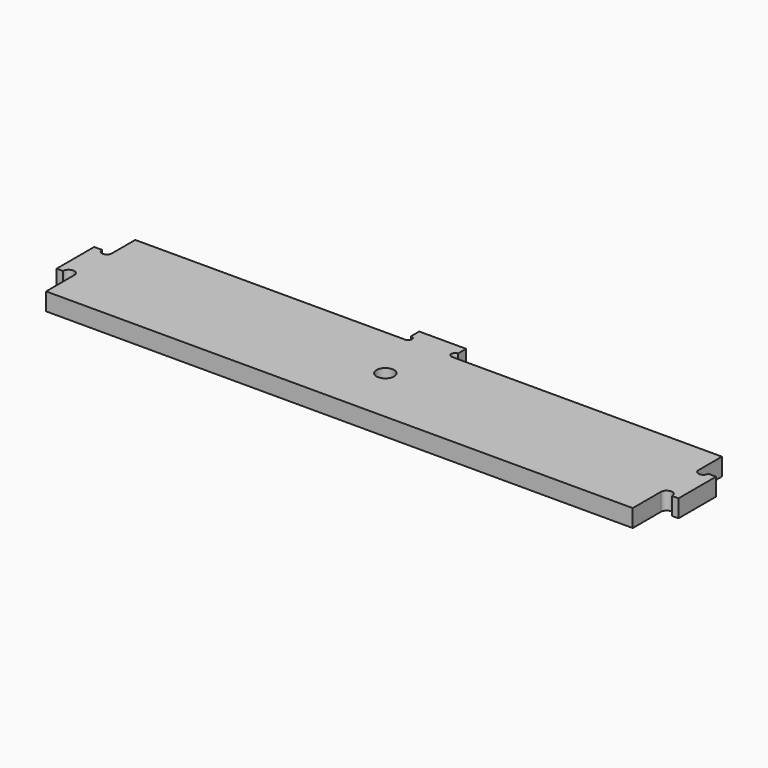
from build123d import *

# Parameters (mm, degrees)
SKETCH009_W        = 106
SKETCH009_H        = 22
PAD003_DEPTH       = 3
POCKET003002_DEPTH = 219.602016
SKETCH001007_R     = 1.5
POCKET003007_DEPTH = 3.001


with BuildPart() as part:
    # Sketch009 → Pad003 (new body)
    with BuildSketch(Plane.XY):
        with Locations((0, -101)):
            Rectangle(SKETCH009_W, SKETCH009_H)
    extrude(amount=PAD003_DEPTH)

    # Sketch001001 → Pocket003002 (cut, through all)
    with BuildSketch(Plane.XY.offset(3)):
        with BuildLine():
            Line((-50, -106), (-50, -112))
            Line((-50, -112), (-53, -112))
            Line((-53, -112), (-53, -106))
            Line((-53, -106), (-51.923996, -106))
            ThreePointArc((-50, -106), (-50.961998, -105.038002), (-51.923996, -106))
        make_face()
        with BuildLine():
            Line((-4, -90), (-53, -90))
            Line((-53, -90), (-53, -98))
            Line((-51.654504, -98), (-53, -98))
            ThreePointArc((-51.654504, -98), (-50.827252, -98.827252), (-50, -98))
            Line((-50, -98), (-50, -93))
            Line((-50, -93), (-4, -93))
            ThreePointArc((-4, -93), (-3.362141, -92.362141), (-4, -91.724282))
            Line((-4, -90), (-4, -91.724282))
        make_face()
    pocket003002 = extrude(amount=-POCKET003002_DEPTH, mode=Mode.SUBTRACT)

    # Mirrored002: Pocket003002 across Sketch001001 V_Axis
    add(pocket003002.mirror(Plane(origin=(0, 0, 3), x_dir=(0, 0, 1), z_dir=(1, 0, 0))), mode=Mode.SUBTRACT)

    # Sketch001007 → Pocket003007 (cut, through all)
    with BuildSketch(Plane.XY.offset(3)):
        with Locations((0, -102.207499)):
            Circle(SKETCH001007_R)
    extrude(amount=-POCKET003007_DEPTH, mode=Mode.SUBTRACT)


solid = part.part
